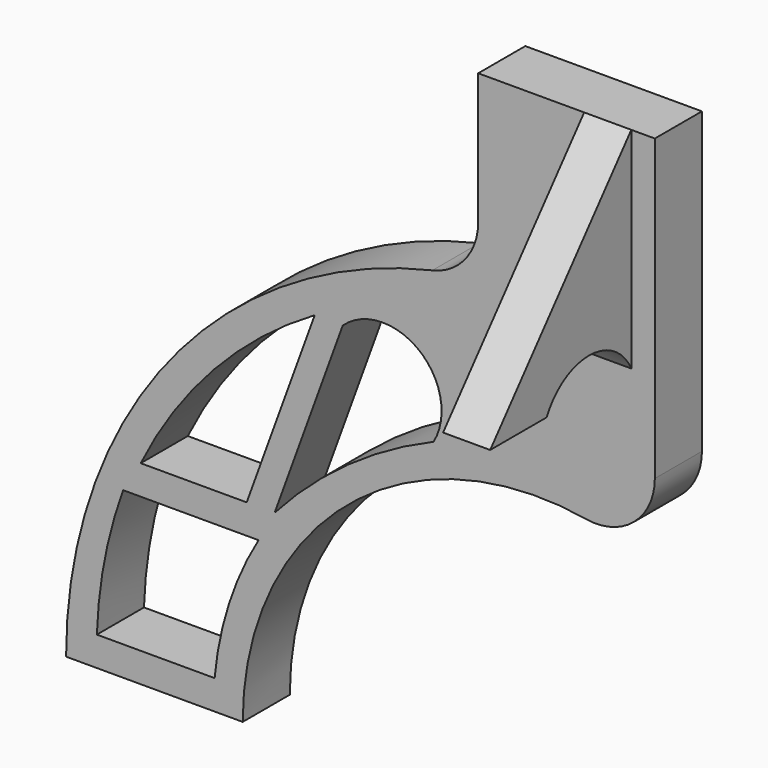
from build123d import *

# Parameters (mm, degrees)
F1_DEPTH = 254
F0_W     = 203.2
F0_H     = 762
F2_DEPTH = 254
F4_START = -101.6
F4_DEPTH = 203.2


with BuildPart() as f1:
    # F0 (on Front) → F1 (new body)
    with BuildSketch(Plane.XZ):
        with BuildLine():
            ThreePointArc((-378.2106060492, -839.47), (72.0079190036, 130.508522099), (1103.4560606175, 412.7668874228))
            ThreePointArc((1103.4560606175, 412.7668874228), (1309.7456889403, 469.2185604875), (1399.7893939508, 663.2142649073))
            Line((1399.7893939508, 663.2142649073), (1399.7893939508, 1954.53))
            Line((1399.7893939508, 1954.53), (1298.1893939508, 1954.53))
            Line((1298.1893939508, 1954.53), (1298.1893939508, 1192.53))
            Line((1298.1893939508, 1192.53), (1094.9893939508, 1192.53))
            Line((1094.9893939508, 1192.53), (1094.9893939508, 1954.53))
            Line((1094.9893939508, 1954.53), (1018.7893939508, 1954.53))
            Line((1018.7893939508, 1954.53), (637.7893939508, 1954.53))
            Line((637.7893939508, 1954.53), (637.7893939508, 1389.3709543976))
            ThreePointArc((637.7893939508, 1389.3709543976), (582.3503277833, 1230.9741250242), (440.2338383953, 1141.7219594645))
            ThreePointArc((440.2338383953, 1141.7219594645), (-696.6980767094, 427.7046349874), (-1140.2106060492, -839.47))
            Line((-1140.2106060492, -839.47), (-378.2106060492, -839.47))
        make_face()
        with BuildLine():
            Line((-499.4259021123, -712.47), (-1007.4259021123, -712.47))
            ThreePointArc((-1007.4259021123, -712.47), (-973.8016007956, -415.2720405308), (-894.074244136, -127))
            Line((-894.074244136, -127), (-309.874244136, -127))
            ThreePointArc((-309.874244136, -127), (-437.2888851639, -409.167864303), (-499.4259021123, -712.47))
        make_face(mode=Mode.SUBTRACT)
        with BuildLine():
            Line((-361.073505214, 0), (-818.273505214, 0))
            ThreePointArc((-818.273505214, 0), (-502.4948684201, 458.6041102514), (-67.6001175036, 806.3115059452))
            Line((-67.6001175036, 806.3115059452), (-361.073505214, 0))
        make_face(mode=Mode.SUBTRACT)
        with BuildLine():
            Line((-240.2620981708, 0), (53.2112895396, 806.3115059452))
            ThreePointArc((53.2112895396, 806.3115059452), (384.5158279566, 818.280267068), (445.4607170033, 492.4096348878))
            ThreePointArc((445.4607170033, 492.4096348878), (74.9794651856, 284.6678287228), (-240.2620981708, 0))
        make_face(mode=Mode.SUBTRACT)
    extrude(amount=-F1_DEPTH)

    # F0 (on Front) → F2 (join)
    with BuildSketch(Plane.XZ):
        with Locations((1196.5893939508, 1573.53)):
            Rectangle(F0_W, F0_H)
    extrude(amount=-F2_DEPTH)

    # F3 (on face) → F4 (join)
    with BuildSketch(Plane.YZ.offset(1399.7893939508).offset(F4_START)):
        with BuildLine():
            Line((0, 1047.8091553467), (0, 1954.53))
            Line((0, 1954.53), (-760.8291263294, 1047.8091553467))
            Line((-760.8291263294, 1047.8091553467), (-456.0291263294, 1047.8091553467))
            ThreePointArc((-456.0291263294, 1047.8091553467), (-228.0145631647, 1189.8924051043), (0, 1047.8091553467))
        make_face()
    extrude(amount=-F4_DEPTH)


solid = f1.part
